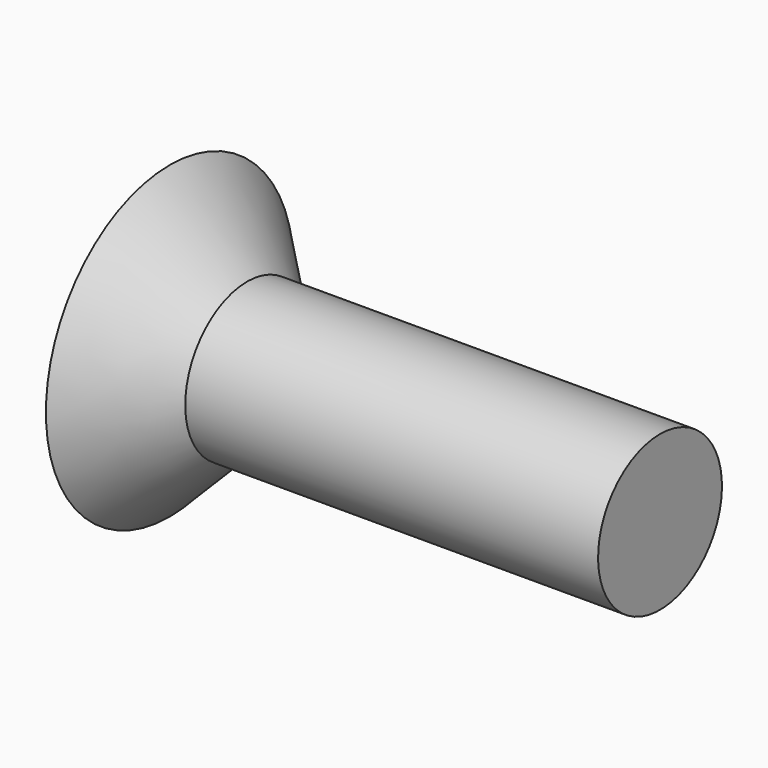
from build123d import *

# Parameters (mm, degrees)
F2_W     = 1.6191368668
F2_H     = 0.7
F2_W_2   = 0.7
F2_H_2   = 1.6191368668
F3_DEPTH = 0.5


with BuildPart() as f1:
    # F0 (on Front) → F1 (revolve)
    with BuildSketch(Plane.XZ):
        Polygon((-6.2744679081, 3), (-6.2744679081, 0), (3.2255320919, 0), (3.2255320919, 1.5), (-4.7744679081, 1.5), align=None)
    revolve(axis=Axis((-2.9709025054, 0, 0), (-1, 0, 0)))

    # F2 (on face) → F3 (cut)
    with BuildSketch(Plane(origin=(-6.2744679081, 0, 0), x_dir=(0, -1, 0), z_dir=(-1, 0, 0))):
        with Locations((-1.1595684334, 0)):
            Rectangle(F2_W, F2_H)
        with Locations((0, 1.1595684334)):
            Rectangle(F2_W_2, F2_H_2)
        Rectangle(F2_W_2, F2_H)
        with Locations((1.1595684334, 0)):
            Rectangle(F2_W, F2_H)
        with Locations((0, -1.1595684334)):
            Rectangle(F2_W_2, F2_H_2)
    extrude(amount=-F3_DEPTH, mode=Mode.SUBTRACT)


solid = f1.part
